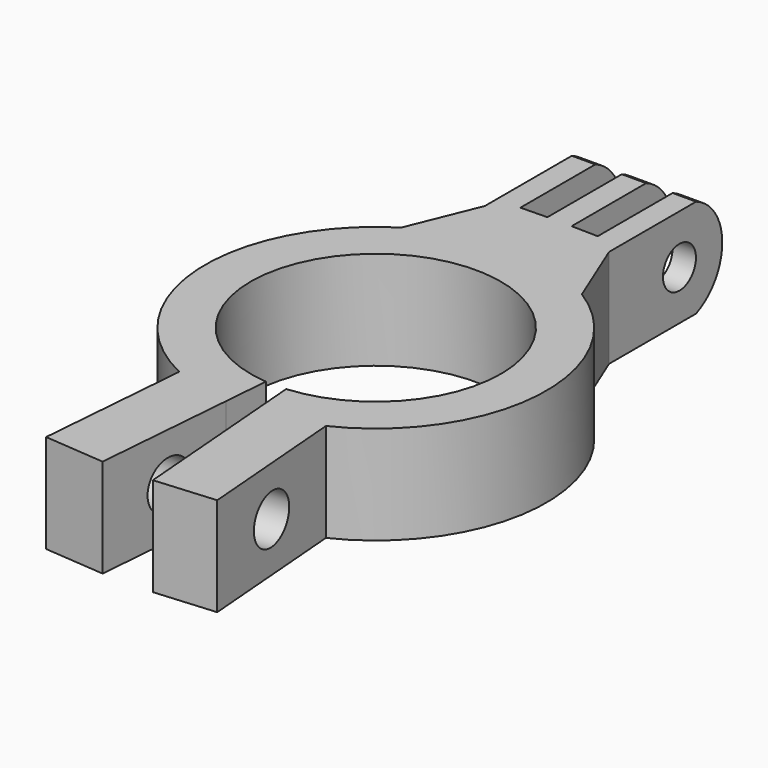
from build123d import *

# Parameters (mm, degrees)
F1_DEPTH = 13
F3_DEPTH = 17
F2_R     = 2.7179879064
F4_DEPTH = 17
F5_R     = 3.25
F6_DEPTH = 13
F7_R     = 3.25
F8_DEPTH = 13


with BuildPart() as f1:
    # F0 (on Top) → F1 (new body)
    with BuildSketch(Plane.XY):
        with BuildLine():
            Line((11.2865111771, -40.2498981271), (9.6717664856, -20.3151897123))
            ThreePointArc((9.6717664856, -20.3151897123), (22.4638141096, -1.275560915), (11.9092941804, 19.0897541138))
            ThreePointArc((11.9092941804, 19.0897541138), (10.094643898, 20.1084102945), (8.1936409697, 20.955053034))
            ThreePointArc((8.1936409697, 20.955053034), (0, 22.5), (-8.1936409697, 20.955053034))
            ThreePointArc((-8.1936409697, 20.955053034), (-10.094643898, 20.1084102945), (-11.9092941804, 19.0897541138))
            ThreePointArc((-11.9092941804, 19.0897541138), (-22.4638141096, -1.275560915), (-9.6717664856, -20.3151897123))
            Line((-9.6717664856, -20.3151897123), (-11.2865111771, -40.2498981271))
            Line((-11.2865111771, -40.2498981271), (-3.3126278112, -40.8957960037))
            Line((-3.3126278112, -40.8957960037), (-1.816587778, -22.4265469666))
            Line((-1.816587778, -22.4265469666), (-1.3321643705, -16.4461344422))
            ThreePointArc((-1.3321643705, -16.4461344422), (0, 16.5), (1.3321643705, -16.4461344422))
            Line((1.3321643705, -16.4461344422), (1.816587778, -22.4265469666))
            Line((1.816587778, -22.4265469666), (3.3126278112, -40.8957960037))
            Line((3.3126278112, -40.8957960037), (11.2865111771, -40.2498981271))
        make_face()
        with BuildLine():
            ThreePointArc((8.1936409697, 20.955053034), (10.094643898, 20.1084102945), (11.9092941804, 19.0897541138))
            Line((11.9092941804, 19.0897541138), (8.1936409697, 28.2182842493))
            Line((8.1936409697, 28.2182842493), (8.1936409697, 20.955053034))
        make_face()
        with BuildLine():
            ThreePointArc((-8.1936409697, 20.955053034), (0, 22.5), (8.1936409697, 20.955053034))
            Line((8.1936409697, 20.955053034), (8.1936409697, 28.2182842493))
            Line((8.1936409697, 28.2182842493), (8.1936409697, 46.824157238))
            Line((8.1936409697, 46.824157238), (5.0982660614, 46.824157238))
            Line((5.0982660614, 46.824157238), (5.0982660614, 30.2175015012))
            Line((5.0982660614, 30.2175015012), (1.6, 30.2903222447))
            Line((1.6, 30.2903222447), (1.6, 46.824157238))
            Line((1.6, 46.824157238), (0, 46.824157238))
            Line((0, 46.824157238), (-1.6, 46.824157238))
            Line((-1.6, 46.824157238), (-1.6, 30.2903222447))
            Line((-1.6, 30.2903222447), (-5.0982660614, 30.2175015012))
            Line((-5.0982660614, 30.2175015012), (-5.0982660614, 46.824157238))
            Line((-5.0982660614, 46.824157238), (-8.1936409697, 46.824157238))
            Line((-8.1936409697, 46.824157238), (-8.1936409697, 33.1387296319))
            Line((-8.1936409697, 33.1387296319), (-8.1936409697, 28.2182842493))
            Line((-8.1936409697, 28.2182842493), (-8.1936409697, 20.955053034))
        make_face()
        with BuildLine():
            ThreePointArc((-11.9092941804, 19.0897541138), (-10.094643898, 20.1084102945), (-8.1936409697, 20.955053034))
            Line((-8.1936409697, 20.955053034), (-8.1936409697, 28.2182842493))
            Line((-8.1936409697, 28.2182842493), (-11.9092941804, 19.0897541138))
        make_face()
    extrude(amount=F1_DEPTH)

    # F2 (on face) → F3 (cut)
    with BuildSketch(Plane.YZ.offset(8.1936409697)):
        with BuildLine():
            ThreePointArc((42.5635200859, 13), (45.44932769, 10.755768579), (46.824157238, 7.3683943876))
            Line((46.824157238, 7.3683943876), (46.824157238, 13))
            Line((46.824157238, 13), (42.5635200859, 13))
        make_face()
        with BuildLine():
            Line((46.824157238, 0), (46.824157238, 5.6316056124))
            ThreePointArc((46.824157238, 5.6316056124), (45.44932769, 2.244231421), (42.5635200859, 0))
            Line((42.5635200859, 0), (46.824157238, 0))
        make_face()
    extrude(amount=-F3_DEPTH, mode=Mode.SUBTRACT)

    # F2 (on face) → F4 (cut)
    with BuildSketch(Plane.YZ.offset(8.1936409697)):
        with Locations((39.824157238, 6.5)):
            Circle(F2_R)
    extrude(amount=-F4_DEPTH, mode=Mode.SUBTRACT)

    # F5 (on face) → F6 (cut)
    with BuildSketch(Plane(origin=(7.9738833659, 0.6458978766, 0), x_dir=(-0.0807372346, 0.9967354207, 0), z_dir=(0.9967354207, 0.0807372346, 0))):
        with Locations((-31.0297408448, 6.5)):
            Circle(F5_R)
    extrude(amount=-F6_DEPTH, mode=Mode.SUBTRACT)

    # F7 (on face) → F8 (cut)
    with BuildSketch(Plane(origin=(-7.9738833659, 0.6458978766, 0), x_dir=(-0.0807372346, -0.9967354207, 0), z_dir=(-0.9967354207, 0.0807372346, 0))):
        with Locations((31.0297408448, 6.5)):
            Circle(F7_R)
    extrude(amount=-F8_DEPTH, mode=Mode.SUBTRACT)


solid = f1.part
